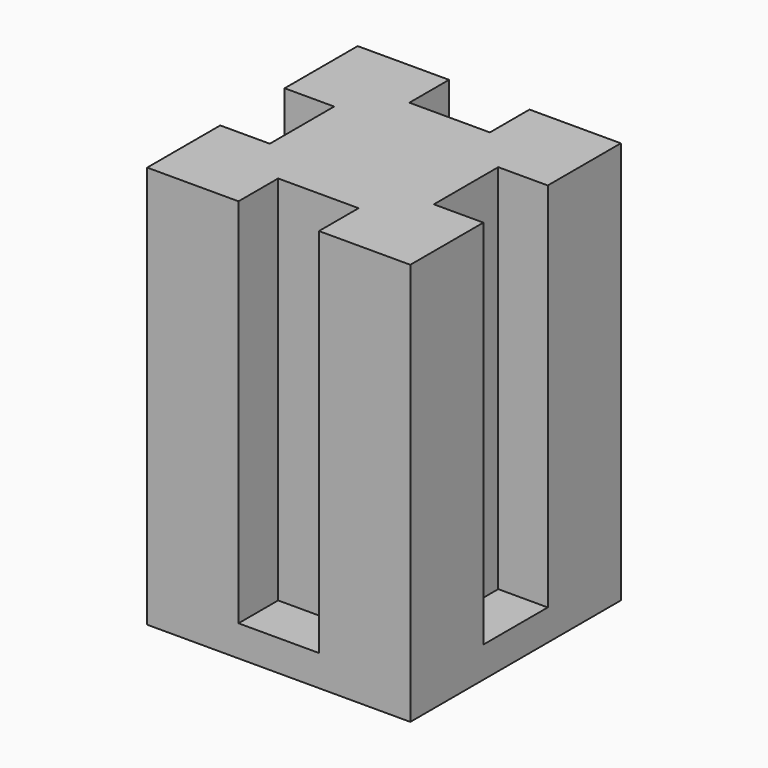
from build123d import *

# Parameters (mm, degrees)
F1_DEPTH = 33.02
F0_W     = 4.064
F0_H     = 6.604
F0_W_2   = 6.604
F0_H_2   = 4.064
F2_DEPTH = 2.54


with BuildPart() as f1:
    # F0 (on Top) → F1 (new body)
    with BuildSketch(Plane.XY):
        Polygon((-3.302, 10.795), (-10.795, 10.795), (-10.795, 3.302), (-6.731, 3.302), (-6.731, -3.302), (-10.795, -3.302), (-10.795, -10.795), (-3.302, -10.795), (-3.302, -6.731), (3.302, -6.731), (3.302, -10.795), (10.795, -10.795), (10.795, -3.302), (6.731, -3.302), (6.731, 3.302), (10.795, 3.302), (10.795, 10.795), (3.302, 10.795), (3.302, 6.731), (-3.302, 6.731), align=None)
    extrude(amount=F1_DEPTH)

    # F0 (on Top) → F2 (join)
    with BuildSketch(Plane.XY):
        with Locations((-8.763, 0)):
            Rectangle(F0_W, F0_H)
        with Locations((0, 8.763)):
            Rectangle(F0_W_2, F0_H_2)
        with Locations((8.763, 0)):
            Rectangle(F0_W, F0_H)
        with Locations((0, -8.763)):
            Rectangle(F0_W_2, F0_H_2)
    extrude(amount=F2_DEPTH)


solid = f1.part
